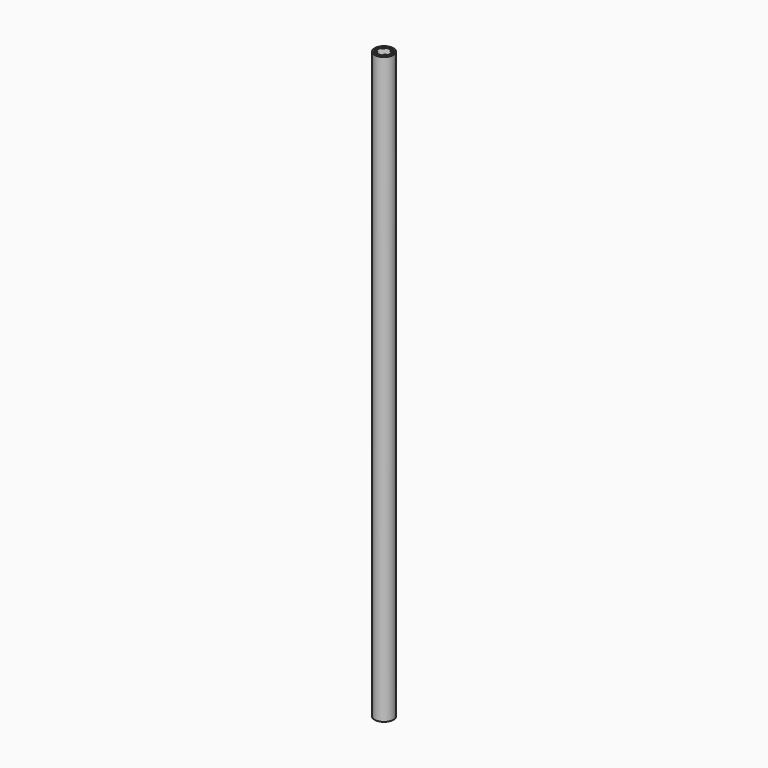
from build123d import *

# Parameters (mm, degrees)
F0_R     = 9
F1_DEPTH = 500
F3_W     = 10
F3_H     = 1000
F4_DEPTH = 10.5
F5_W     = 10
F5_H     = 1000
F6_DEPTH = 10.5
F7_R     = 16
F7_R_2   = 13.25
F8_DEPTH = 500


with BuildPart() as f1:
    # F0 (on Top) → F1 (new body, symmetric)
    with BuildSketch(Plane.XY):
        Circle(F0_R)
    extrude(amount=F1_DEPTH, both=True)

    # F3 (on Right) → F4 (join, symmetric)
    with BuildSketch(Plane.YZ):
        Rectangle(F3_W, F3_H)
    extrude(amount=F4_DEPTH, both=True)

    # F5 (on Front) → F6 (join, symmetric)
    with BuildSketch(Plane.XZ):
        Rectangle(F5_W, F5_H)
    extrude(amount=F6_DEPTH, both=True)


with BuildPart() as f8:
    # F7 (on Top) → F8 (new body, symmetric)
    with BuildSketch(Plane.XY):
        Circle(F7_R)
        Circle(F7_R_2, mode=Mode.SUBTRACT)
    extrude(amount=F8_DEPTH, both=True)


with BuildPart() as f9_1:
    # F9: copy of F1
    add(f1.part.moved(Location((57, 0, 0))))


solid = Compound([f1.part, f8.part])
